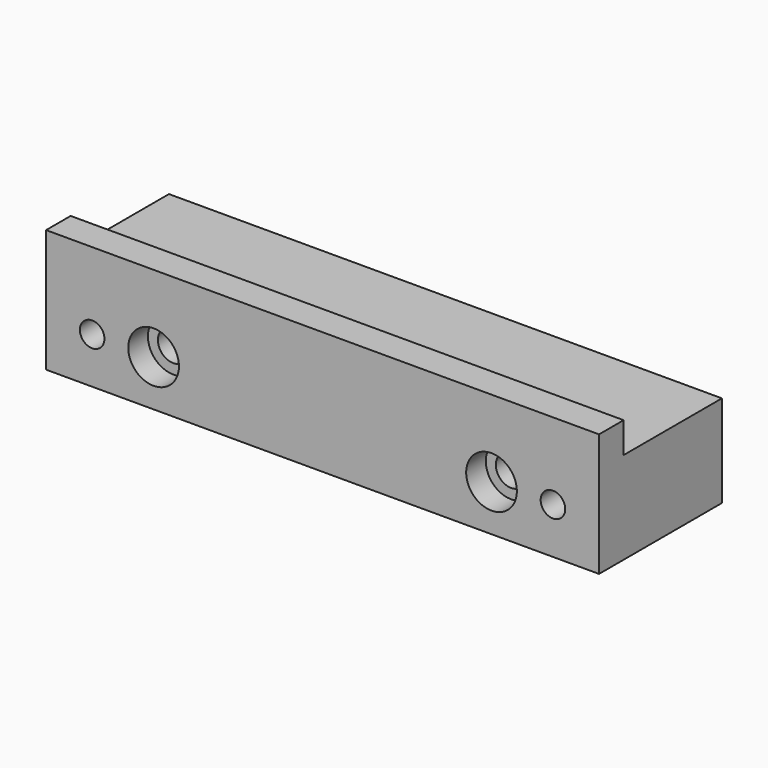
from build123d import *

# Parameters (mm, degrees)
F1_DEPTH       = 45
F2_R           = 2
F3_DEPTH       = 25.001
F4_D           = 5
F4_CBORE_D     = 8.25
F4_CBORE_DEPTH = 4


with BuildPart() as f1:
    # F0 (on Right) → F1 (new body, symmetric)
    with BuildSketch(Plane.YZ):
        Polygon((-25, 0), (0, 0), (0, 15), (-20, 15), (-20, 20), (-25, 20), align=None)
    extrude(amount=F1_DEPTH, both=True)

    # F2 (on face) → F3 (cut, through all)
    with BuildSketch(Plane.XZ.offset(25)):
        with Locations((-37.5, 7.5)):
            Circle(F2_R)
        with Locations((37.5, 7.5)):
            Circle(F2_R)
    extrude(amount=-F3_DEPTH, mode=Mode.SUBTRACT)

    # F4 (through all)
    with Locations(Plane.XZ.offset(25)):
        with Locations((-27.5, 7.5), (27.5, 7.5)):
            CounterBoreHole(F4_D / 2, F4_CBORE_D / 2, F4_CBORE_DEPTH)


solid = f1.part
